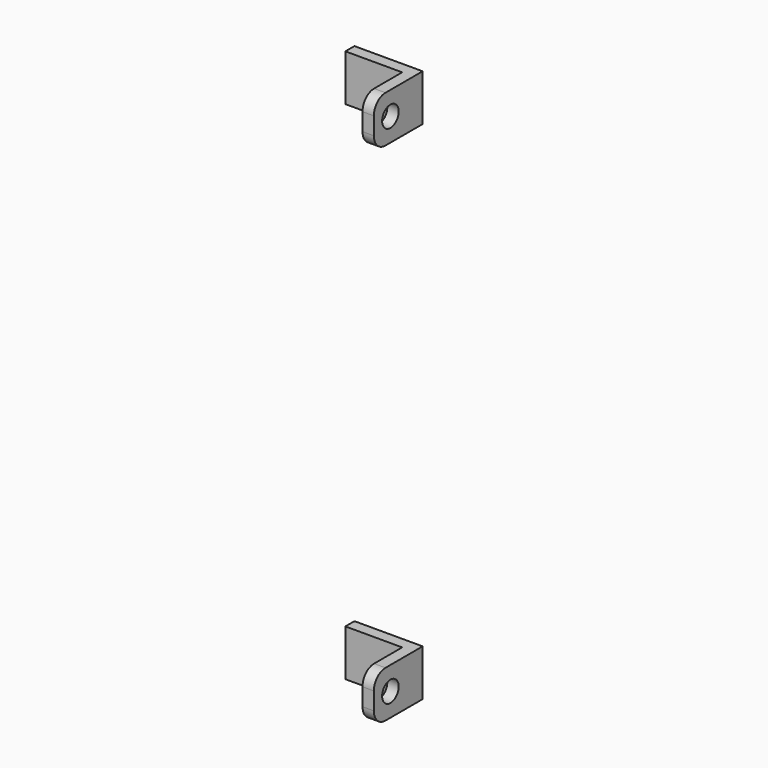
from build123d import *

# Parameters (mm, degrees)
CYLINDER072_R     = 2
CYLINDER072_DEPTH = 10
BOX074_W          = 2.2
BOX074_H          = 11.8
BOX074_DEPTH      = 9
FILLET008_R       = 2.8
BOX075_W          = 11
BOX075_H          = 2.2
BOX075_DEPTH      = 9
CYLINDER071_R     = 2
CYLINDER071_DEPTH = 10
BOX073_W          = 2.2
BOX073_H          = 11.8
BOX073_DEPTH      = 9
FILLET007_R       = 2.8
BOX072_W          = 11
BOX072_H          = 2.2
BOX072_DEPTH      = 9


with BuildPart() as cylinder041:
    # Cylinder072 → Cylinder072 (new body)
    with BuildSketch(Plane(origin=(12, 7.8, 4.5), x_dir=(0, 0, -1), z_dir=(1, 0, 0))):
        Circle(CYLINDER072_R)
    extrude(amount=CYLINDER072_DEPTH)


with BuildPart() as cut069:
    # Box074 → Box074 (new body)
    with BuildSketch(Plane(origin=(13, 0, 0), x_dir=(1, 0, 0), z_dir=(0, 0, 1))):
        with Locations((1.1, 5.9)):
            Rectangle(BOX074_W, BOX074_H)
    extrude(amount=BOX074_DEPTH)

    # Fillet008
    fillet008_edges = [cut069.edges().sort_by_distance(p)[0] for p in [
        (14.1, 11.8, 0),
        (14.1, 11.8, 9),
    ]]
    fillet(fillet008_edges, radius=FILLET008_R)

    # Cut069: cut Cylinder041
    add(cylinder041.part, mode=Mode.SUBTRACT)


with BuildPart() as front_halter002:
    # Box075 → Box075 (new body)
    with BuildSketch(Plane(origin=(2, 0, 0), x_dir=(1, 0, 0), z_dir=(0, 0, 1))):
        with Locations((5.5, 1.1)):
            Rectangle(BOX075_W, BOX075_H)
    extrude(amount=BOX075_DEPTH)

    # Fusion039: union Cut069
    add(cut069.part)


with BuildPart() as front_halter002_1:
    # Fusion039 placement: moved
    add(front_halter002.part.moved(Location((0, 2.2, 98))))


with BuildPart() as cylinder040:
    # Cylinder071 → Cylinder071 (new body)
    with BuildSketch(Plane(origin=(12, 7.8, 4.5), x_dir=(0, 0, -1), z_dir=(1, 0, 0))):
        Circle(CYLINDER071_R)
    extrude(amount=CYLINDER071_DEPTH)


with BuildPart() as cut068:
    # Box073 → Box073 (new body)
    with BuildSketch(Plane(origin=(13, 0, 0), x_dir=(1, 0, 0), z_dir=(0, 0, 1))):
        with Locations((1.1, 5.9)):
            Rectangle(BOX073_W, BOX073_H)
    extrude(amount=BOX073_DEPTH)

    # Fillet007
    fillet007_edges = [cut068.edges().sort_by_distance(p)[0] for p in [
        (14.1, 11.8, 0),
        (14.1, 11.8, 9),
    ]]
    fillet(fillet007_edges, radius=FILLET007_R)

    # Cut068: cut Cylinder040
    add(cylinder040.part, mode=Mode.SUBTRACT)


with BuildPart() as halter001:
    # Box072 → Box072 (new body)
    with BuildSketch(Plane(origin=(2, 0, 0), x_dir=(1, 0, 0), z_dir=(0, 0, 1))):
        with Locations((5.5, 1.1)):
            Rectangle(BOX072_W, BOX072_H)
    extrude(amount=BOX072_DEPTH)

    # Fusion038: union Cut068
    add(cut068.part)


with BuildPart() as halter001_1:
    # Fusion038 placement: moved
    add(halter001.part.moved(Location((0, 2.2, 0))))

    # Fusion040: union Front_Halter002
    add(front_halter002_1.part)


with BuildPart() as halter001_2:
    # Fusion040 placement: moved
    add(halter001_1.part.moved(Location((0, -6, 0))))


with BuildPart() as halter002:
    # Part__Mirroring008: instance of Halter001
    add(halter001_2.part.mirror(Plane(origin=(0, 0, 0), x_dir=(1, 0, 0), z_dir=(0, 1, 0))))


with BuildPart() as halter002_1:
    # Part__Mirroring008 placement: moved
    add(halter002.part.moved(Location((0, 68.5, 0))))


solid = halter002_1.part
